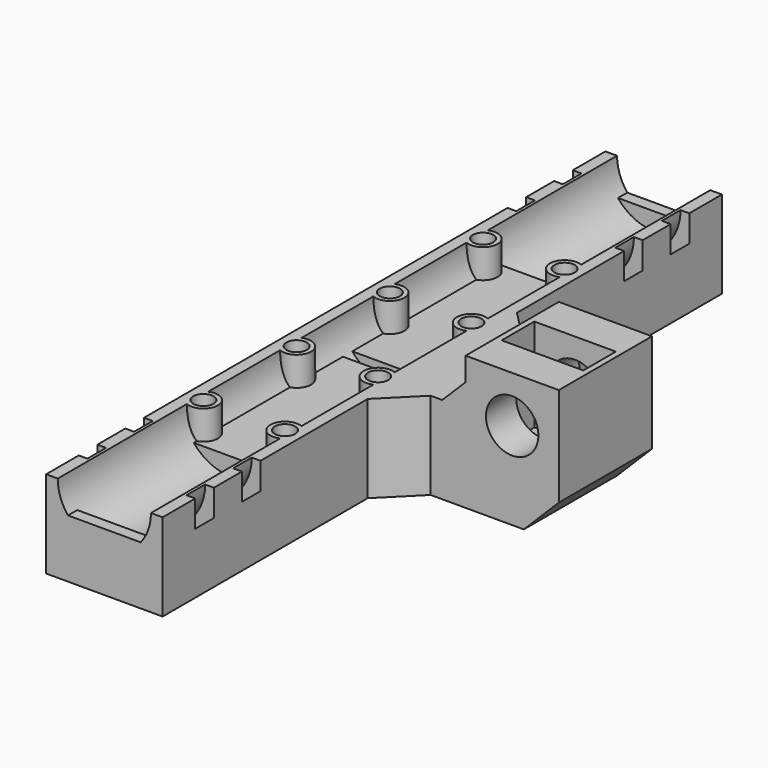
from build123d import *

# Parameters (mm, degrees)
CYLINDER026_R          = 1.75
CYLINDER026_DEPTH      = 20
CYLINDER026_ROLL_ANGLE = -90
CYLINDER025_R          = 1.75
CYLINDER025_DEPTH      = 20
CYLINDER025_ROLL_ANGLE = -90
CYLINDER024_R          = 1.75
CYLINDER024_DEPTH      = 20
CYLINDER024_ROLL_ANGLE = -90
CYLINDER023_R          = 1.75
CYLINDER023_DEPTH      = 20
CYLINDER023_ROLL_ANGLE = -90
CYLINDER018_R          = 1.75
CYLINDER018_DEPTH      = 20
CYLINDER018_ROLL_ANGLE = -90
CYLINDER016_R          = 1.75
CYLINDER016_DEPTH      = 20
CYLINDER016_ROLL_ANGLE = -90
CYLINDER014_R          = 1.75
CYLINDER014_DEPTH      = 20
CYLINDER014_ROLL_ANGLE = -90
CYLINDER010_R          = 1.75
CYLINDER010_DEPTH      = 20
CYLINDER010_ROLL_ANGLE = -90
CYLINDER012_R          = 2.5
CYLINDER012_DEPTH      = 15
CYLINDER012_ROLL_ANGLE = -90
CYLINDER013_R          = 2.5
CYLINDER013_DEPTH      = 15
CYLINDER013_ROLL_ANGLE = -90
CYLINDER015_R          = 2.5
CYLINDER015_DEPTH      = 15
CYLINDER015_ROLL_ANGLE = -90
CYLINDER017_R          = 2.5
CYLINDER017_DEPTH      = 15
CYLINDER017_ROLL_ANGLE = -90
CYLINDER019_R          = 2.5
CYLINDER019_DEPTH      = 15
CYLINDER019_ROLL_ANGLE = -90
CYLINDER020_R          = 2.5
CYLINDER020_DEPTH      = 15
CYLINDER020_ROLL_ANGLE = -90
CYLINDER021_R          = 2.5
CYLINDER021_DEPTH      = 15
CYLINDER021_ROLL_ANGLE = -90
CYLINDER022_R          = 2.5
CYLINDER022_DEPTH      = 15
CYLINDER022_ROLL_ANGLE = -90
BOX005_W               = 14
BOX005_H               = 16
BOX005_DEPTH           = 7
BOX002_W               = 20
BOX002_H               = 5
BOX002_DEPTH           = 2
BOX003_W               = 20
BOX003_H               = 5
BOX003_DEPTH           = 2
BOX004_W               = 20
BOX004_H               = 5
BOX004_DEPTH           = 32
BOX007_W               = 20
BOX007_H               = 5
BOX007_DEPTH           = 32
CYLINDER008_R          = 8.5
CYLINDER008_DEPTH      = 4
CYLINDER009_R          = 11
CYLINDER009_DEPTH      = 4
CYLINDER006_R          = 8.5
CYLINDER006_DEPTH      = 4
CYLINDER007_R          = 11
CYLINDER007_DEPTH      = 4
CYLINDER004_R          = 8.5
CYLINDER004_DEPTH      = 4
CYLINDER005_R          = 11
CYLINDER005_DEPTH      = 4
CYLINDER003_R          = 8.5
CYLINDER003_DEPTH      = 4
CYLINDER002_R          = 11
CYLINDER002_DEPTH      = 4
BOX001_W               = 30
BOX001_H               = 28
BOX001_DEPTH           = 50
BOX_W                  = 30
BOX_H                  = 28
BOX_DEPTH              = 50
SKETCH002_R            = 4.5
PAD002_DEPTH           = 120
CHAMFER_SIZE           = 4
CHAMFER001_SIZE        = 6
CHAMFER002_SIZE        = 6
CHAMFER002_ROLL_ANGLE  = -90


with BuildPart() as cylinder026:
    # Cylinder026 → Cylinder026 (new body)
    with BuildSketch(Plane.XY):
        Circle(CYLINDER026_R)
    extrude(amount=CYLINDER026_DEPTH)


with BuildPart() as cylinder026_1:
    # Cylinder026 roll: moved
    add(cylinder026.part.rotate(Axis((0, 0, 0), (1, 0, 0)), CYLINDER026_ROLL_ANGLE))


with BuildPart() as cylinder026_2:
    # Cylinder026 placement: moved
    add(cylinder026_1.part.moved(Location((3, 27, 90))))


with BuildPart() as cylinder025:
    # Cylinder025 → Cylinder025 (new body)
    with BuildSketch(Plane.XY):
        Circle(CYLINDER025_R)
    extrude(amount=CYLINDER025_DEPTH)


with BuildPart() as cylinder025_1:
    # Cylinder025 roll: moved
    add(cylinder025.part.rotate(Axis((0, 0, 0), (1, 0, 0)), CYLINDER025_ROLL_ANGLE))


with BuildPart() as cylinder025_2:
    # Cylinder025 placement: moved
    add(cylinder025_1.part.moved(Location((17, 27, 90))))


with BuildPart() as cylinder024:
    # Cylinder024 → Cylinder024 (new body)
    with BuildSketch(Plane.XY):
        Circle(CYLINDER024_R)
    extrude(amount=CYLINDER024_DEPTH)


with BuildPart() as cylinder024_1:
    # Cylinder024 roll: moved
    add(cylinder024.part.rotate(Axis((0, 0, 0), (1, 0, 0)), CYLINDER024_ROLL_ANGLE))


with BuildPart() as cylinder024_2:
    # Cylinder024 placement: moved
    add(cylinder024_1.part.moved(Location((17, 27, 70))))


with BuildPart() as cylinder023:
    # Cylinder023 → Cylinder023 (new body)
    with BuildSketch(Plane.XY):
        Circle(CYLINDER023_R)
    extrude(amount=CYLINDER023_DEPTH)


with BuildPart() as cylinder023_1:
    # Cylinder023 roll: moved
    add(cylinder023.part.rotate(Axis((0, 0, 0), (1, 0, 0)), CYLINDER023_ROLL_ANGLE))


with BuildPart() as cylinder023_2:
    # Cylinder023 placement: moved
    add(cylinder023_1.part.moved(Location((3, 27, 70))))


with BuildPart() as cylinder018:
    # Cylinder018 → Cylinder018 (new body)
    with BuildSketch(Plane.XY):
        Circle(CYLINDER018_R)
    extrude(amount=CYLINDER018_DEPTH)


with BuildPart() as cylinder018_1:
    # Cylinder018 roll: moved
    add(cylinder018.part.rotate(Axis((0, 0, 0), (1, 0, 0)), CYLINDER018_ROLL_ANGLE))


with BuildPart() as cylinder018_2:
    # Cylinder018 placement: moved
    add(cylinder018_1.part.moved(Location((3, 27, 50))))


with BuildPart() as cylinder016:
    # Cylinder016 → Cylinder016 (new body)
    with BuildSketch(Plane.XY):
        Circle(CYLINDER016_R)
    extrude(amount=CYLINDER016_DEPTH)


with BuildPart() as cylinder016_1:
    # Cylinder016 roll: moved
    add(cylinder016.part.rotate(Axis((0, 0, 0), (1, 0, 0)), CYLINDER016_ROLL_ANGLE))


with BuildPart() as cylinder016_2:
    # Cylinder016 placement: moved
    add(cylinder016_1.part.moved(Location((17, 27, 50))))


with BuildPart() as cylinder014:
    # Cylinder014 → Cylinder014 (new body)
    with BuildSketch(Plane.XY):
        Circle(CYLINDER014_R)
    extrude(amount=CYLINDER014_DEPTH)


with BuildPart() as cylinder014_1:
    # Cylinder014 roll: moved
    add(cylinder014.part.rotate(Axis((0, 0, 0), (1, 0, 0)), CYLINDER014_ROLL_ANGLE))


with BuildPart() as cylinder014_2:
    # Cylinder014 placement: moved
    add(cylinder014_1.part.moved(Location((17, 27, 30))))


with BuildPart() as cylinder010:
    # Cylinder010 → Cylinder010 (new body)
    with BuildSketch(Plane.XY):
        Circle(CYLINDER010_R)
    extrude(amount=CYLINDER010_DEPTH)


with BuildPart() as cylinder010_1:
    # Cylinder010 roll: moved
    add(cylinder010.part.rotate(Axis((0, 0, 0), (1, 0, 0)), CYLINDER010_ROLL_ANGLE))


with BuildPart() as cylinder010_2:
    # Cylinder010 placement: moved
    add(cylinder010_1.part.moved(Location((3, 27, 30))))


with BuildPart() as cylinder012:
    # Cylinder012 → Cylinder012 (new body)
    with BuildSketch(Plane.XY):
        Circle(CYLINDER012_R)
    extrude(amount=CYLINDER012_DEPTH)


with BuildPart() as cylinder012_1:
    # Cylinder012 roll: moved
    add(cylinder012.part.rotate(Axis((0, 0, 0), (1, 0, 0)), CYLINDER012_ROLL_ANGLE))


with BuildPart() as cylinder012_2:
    # Cylinder012 placement: moved
    add(cylinder012_1.part.moved(Location((3, 30, 30))))


with BuildPart() as cylinder013:
    # Cylinder013 → Cylinder013 (new body)
    with BuildSketch(Plane.XY):
        Circle(CYLINDER013_R)
    extrude(amount=CYLINDER013_DEPTH)


with BuildPart() as cylinder013_1:
    # Cylinder013 roll: moved
    add(cylinder013.part.rotate(Axis((0, 0, 0), (1, 0, 0)), CYLINDER013_ROLL_ANGLE))


with BuildPart() as cylinder013_2:
    # Cylinder013 placement: moved
    add(cylinder013_1.part.moved(Location((17, 30, 30))))


with BuildPart() as cylinder015:
    # Cylinder015 → Cylinder015 (new body)
    with BuildSketch(Plane.XY):
        Circle(CYLINDER015_R)
    extrude(amount=CYLINDER015_DEPTH)


with BuildPart() as cylinder015_1:
    # Cylinder015 roll: moved
    add(cylinder015.part.rotate(Axis((0, 0, 0), (1, 0, 0)), CYLINDER015_ROLL_ANGLE))


with BuildPart() as cylinder015_2:
    # Cylinder015 placement: moved
    add(cylinder015_1.part.moved(Location((17, 30, 50))))


with BuildPart() as cylinder017:
    # Cylinder017 → Cylinder017 (new body)
    with BuildSketch(Plane.XY):
        Circle(CYLINDER017_R)
    extrude(amount=CYLINDER017_DEPTH)


with BuildPart() as cylinder017_1:
    # Cylinder017 roll: moved
    add(cylinder017.part.rotate(Axis((0, 0, 0), (1, 0, 0)), CYLINDER017_ROLL_ANGLE))


with BuildPart() as cylinder017_2:
    # Cylinder017 placement: moved
    add(cylinder017_1.part.moved(Location((3, 30, 50))))


with BuildPart() as cylinder019:
    # Cylinder019 → Cylinder019 (new body)
    with BuildSketch(Plane.XY):
        Circle(CYLINDER019_R)
    extrude(amount=CYLINDER019_DEPTH)


with BuildPart() as cylinder019_1:
    # Cylinder019 roll: moved
    add(cylinder019.part.rotate(Axis((0, 0, 0), (1, 0, 0)), CYLINDER019_ROLL_ANGLE))


with BuildPart() as cylinder019_2:
    # Cylinder019 placement: moved
    add(cylinder019_1.part.moved(Location((3, 30, 90))))


with BuildPart() as cylinder020:
    # Cylinder020 → Cylinder020 (new body)
    with BuildSketch(Plane.XY):
        Circle(CYLINDER020_R)
    extrude(amount=CYLINDER020_DEPTH)


with BuildPart() as cylinder020_1:
    # Cylinder020 roll: moved
    add(cylinder020.part.rotate(Axis((0, 0, 0), (1, 0, 0)), CYLINDER020_ROLL_ANGLE))


with BuildPart() as cylinder020_2:
    # Cylinder020 placement: moved
    add(cylinder020_1.part.moved(Location((17, 30, 90))))


with BuildPart() as cylinder021:
    # Cylinder021 → Cylinder021 (new body)
    with BuildSketch(Plane.XY):
        Circle(CYLINDER021_R)
    extrude(amount=CYLINDER021_DEPTH)


with BuildPart() as cylinder021_1:
    # Cylinder021 roll: moved
    add(cylinder021.part.rotate(Axis((0, 0, 0), (1, 0, 0)), CYLINDER021_ROLL_ANGLE))


with BuildPart() as cylinder021_2:
    # Cylinder021 placement: moved
    add(cylinder021_1.part.moved(Location((17, 30, 70))))


with BuildPart() as cylinder022:
    # Cylinder022 → Cylinder022 (new body)
    with BuildSketch(Plane.XY):
        Circle(CYLINDER022_R)
    extrude(amount=CYLINDER022_DEPTH)


with BuildPart() as cylinder022_1:
    # Cylinder022 roll: moved
    add(cylinder022.part.rotate(Axis((0, 0, 0), (1, 0, 0)), CYLINDER022_ROLL_ANGLE))


with BuildPart() as cylinder022_2:
    # Cylinder022 placement: moved
    add(cylinder022_1.part.moved(Location((3, 30, 70))))


with BuildPart() as obj1:
    # Box005 → Box005 (new body)
    with BuildSketch(Plane(origin=(33, 22, 56.5), x_dir=(1, 0, 0), z_dir=(0, 0, 1))):
        with Locations((7, 8)):
            Rectangle(BOX005_W, BOX005_H)
    extrude(amount=BOX005_DEPTH)


with BuildPart() as obj2:
    # Box002 → Box002 (new body)
    with BuildSketch(Plane(origin=(0, 35, 0), x_dir=(1, 0, 0), z_dir=(0, 0, 1))):
        with Locations((10, 2.5)):
            Rectangle(BOX002_W, BOX002_H)
    extrude(amount=BOX002_DEPTH)


with BuildPart() as obj3:
    # Box003 → Box003 (new body)
    with BuildSketch(Plane(origin=(0, 35, 118), x_dir=(1, 0, 0), z_dir=(0, 0, 1))):
        with Locations((10, 2.5)):
            Rectangle(BOX003_W, BOX003_H)
    extrude(amount=BOX003_DEPTH)


with BuildPart() as obj4:
    # Box004 → Box004 (new body)
    with BuildSketch(Plane(origin=(0, 35, 27), x_dir=(1, 0, 0), z_dir=(0, 0, 1))):
        with Locations((10, 2.5)):
            Rectangle(BOX004_W, BOX004_H)
    extrude(amount=BOX004_DEPTH)


with BuildPart() as obj5:
    # Box007 → Box007 (new body)
    with BuildSketch(Plane(origin=(0, 35, 61), x_dir=(1, 0, 0), z_dir=(0, 0, 1))):
        with Locations((10, 2.5)):
            Rectangle(BOX007_W, BOX007_H)
    extrude(amount=BOX007_DEPTH)


with BuildPart() as cyl_brida_int004:
    # Cylinder008 → Cylinder008 (new body)
    with BuildSketch(Plane.XY):
        Circle(CYLINDER008_R)
    extrude(amount=CYLINDER008_DEPTH)


with BuildPart() as obj6:
    # Cylinder009 → Cylinder009 (new body)
    with BuildSketch(Plane.XY):
        Circle(CYLINDER009_R)
    extrude(amount=CYLINDER009_DEPTH)

    # Cut013: cut Cyl-brida-int004
    add(cyl_brida_int004.part, mode=Mode.SUBTRACT)


with BuildPart() as obj6_1:
    # Cut013 placement: moved
    add(obj6.part.moved(Location((10, 30, 109))))


with BuildPart() as cyl_brida_int003:
    # Cylinder006 → Cylinder006 (new body)
    with BuildSketch(Plane.XY):
        Circle(CYLINDER006_R)
    extrude(amount=CYLINDER006_DEPTH)


with BuildPart() as obj7:
    # Cylinder007 → Cylinder007 (new body)
    with BuildSketch(Plane.XY):
        Circle(CYLINDER007_R)
    extrude(amount=CYLINDER007_DEPTH)

    # Cut012: cut Cyl-brida-int003
    add(cyl_brida_int003.part, mode=Mode.SUBTRACT)


with BuildPart() as obj7_1:
    # Cut012 placement: moved
    add(obj7.part.moved(Location((10, 30, 99))))


with BuildPart() as cyl_brida_int002:
    # Cylinder004 → Cylinder004 (new body)
    with BuildSketch(Plane.XY):
        Circle(CYLINDER004_R)
    extrude(amount=CYLINDER004_DEPTH)


with BuildPart() as obj8:
    # Cylinder005 → Cylinder005 (new body)
    with BuildSketch(Plane.XY):
        Circle(CYLINDER005_R)
    extrude(amount=CYLINDER005_DEPTH)

    # Cut011: cut Cyl-brida-int002
    add(cyl_brida_int002.part, mode=Mode.SUBTRACT)


with BuildPart() as obj8_1:
    # Cut011 placement: moved
    add(obj8.part.moved(Location((10, 30, 17))))


with BuildPart() as cyl_brida_int001:
    # Cylinder003 → Cylinder003 (new body)
    with BuildSketch(Plane.XY):
        Circle(CYLINDER003_R)
    extrude(amount=CYLINDER003_DEPTH)


with BuildPart() as obj9:
    # Cylinder002 → Cylinder002 (new body)
    with BuildSketch(Plane.XY):
        Circle(CYLINDER002_R)
    extrude(amount=CYLINDER002_DEPTH)

    # Cut008: cut Cyl-brida-int001
    add(cyl_brida_int001.part, mode=Mode.SUBTRACT)


with BuildPart() as obj9_1:
    # Cut008 placement: moved
    add(obj9.part.moved(Location((10, 30, 7))))


with BuildPart() as obj10:
    # Box001 → Box001 (new body)
    with BuildSketch(Plane(origin=(20, 18, 70), x_dir=(1, 0, 0), z_dir=(0, 0, 1))):
        with Locations((15, 14)):
            Rectangle(BOX001_W, BOX001_H)
    extrude(amount=BOX001_DEPTH)


with BuildPart() as obj11:
    # Box → Box (new body)
    with BuildSketch(Plane(origin=(20, 18, 0), x_dir=(1, 0, 0), z_dir=(0, 0, 1))):
        with Locations((15, 14)):
            Rectangle(BOX_W, BOX_H)
    extrude(amount=BOX_DEPTH)


with BuildPart() as obj12:
    # Sketch002 → Pad002 (new body)
    with BuildSketch(Plane.XY):
        with BuildLine():
            ThreePointArc((18, 30), (10, 38), (2, 30))
            Line((0, 30), (2, 30))
            Line((0, 45), (0, 30))
            Line((0, 45), (48, 45))
            Line((48, 45), (48, 22))
            Line((32, 22), (48, 22))
            Line((32, 30), (32, 22))
            Line((18, 30), (32, 30))
        make_face()
        with Locations((40, 30)):
            Circle(SKETCH002_R, mode=Mode.SUBTRACT)
    extrude(amount=PAD002_DEPTH)

    # Cut009: cut obj11
    add(obj11.part, mode=Mode.SUBTRACT)

    # Cut010: cut obj10
    add(obj10.part, mode=Mode.SUBTRACT)

    # Cut014: cut obj9
    add(obj9_1.part, mode=Mode.SUBTRACT)

    # Cut015: cut obj8
    add(obj8_1.part, mode=Mode.SUBTRACT)

    # Cut016: cut obj7
    add(obj7_1.part, mode=Mode.SUBTRACT)

    # Cut017: cut obj6
    add(obj6_1.part, mode=Mode.SUBTRACT)

    # Fusion: union obj2, obj3, obj4, obj5
    add(obj2.part)
    add(obj3.part)
    add(obj4.part)
    add(obj5.part)

    # Cut018: cut obj1
    add(obj1.part, mode=Mode.SUBTRACT)

    # Fusion001: union Cylinder012, Cylinder013, Cylinder015, Cylinder017, Cylinder019, Cylinder020, Cylinder021, Cylinder022
    add(cylinder012_2.part)
    add(cylinder013_2.part)
    add(cylinder015_2.part)
    add(cylinder017_2.part)
    add(cylinder019_2.part)
    add(cylinder020_2.part)
    add(cylinder021_2.part)
    add(cylinder022_2.part)

    # Cut019: cut Cylinder010
    add(cylinder010_2.part, mode=Mode.SUBTRACT)

    # Cut020: cut Cylinder014
    add(cylinder014_2.part, mode=Mode.SUBTRACT)

    # Cut021: cut Cylinder016
    add(cylinder016_2.part, mode=Mode.SUBTRACT)

    # Cut022: cut Cylinder018
    add(cylinder018_2.part, mode=Mode.SUBTRACT)

    # Cut023: cut Cylinder023
    add(cylinder023_2.part, mode=Mode.SUBTRACT)

    # Cut024: cut Cylinder024
    add(cylinder024_2.part, mode=Mode.SUBTRACT)

    # Cut025: cut Cylinder025
    add(cylinder025_2.part, mode=Mode.SUBTRACT)

    # Cut026: cut Cylinder026
    add(cylinder026_2.part, mode=Mode.SUBTRACT)

    # Chamfer
    chamfer_edges = [obj12.edges().sort_by_distance(p)[0] for p in [
        (32, 30, 60),
    ]]
    chamfer(chamfer_edges, length=CHAMFER_SIZE)

    # Chamfer001
    chamfer001_edges = [obj12.edges().sort_by_distance(p)[0] for p in [
        (48, 45, 60),
    ]]
    chamfer(chamfer001_edges, length=CHAMFER001_SIZE)

    # Chamfer002
    chamfer002_edges = [obj12.edges().sort_by_distance(p)[0] for p in [
        (20, 37.5, 50),
        (20, 37.5, 70),
    ]]
    chamfer(chamfer002_edges, length=CHAMFER002_SIZE)


with BuildPart() as obj12_1:
    # Chamfer002 roll: moved
    add(obj12.part.rotate(Axis((0, 0, 0), (1, 0, 0)), CHAMFER002_ROLL_ANGLE))


with BuildPart() as obj12_2:
    # Chamfer002 placement: moved
    add(obj12_1.part)


solid = obj12_2.part
